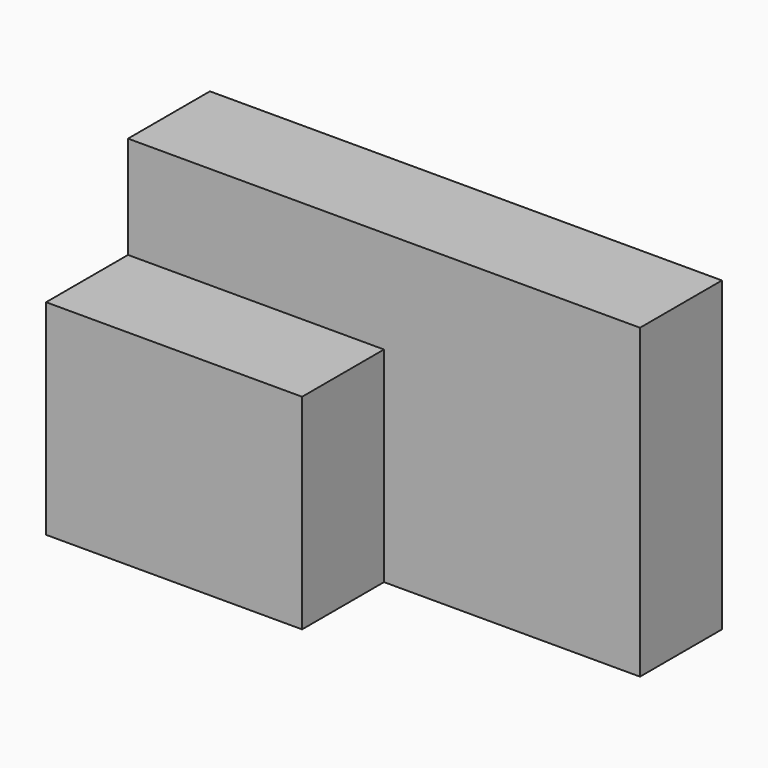
from build123d import *

# Parameters (mm, degrees)
F1_DEPTH = 38.1
F0_W     = 31.75
F0_H     = 12.7
F2_DEPTH = 25.4


with BuildPart() as f1:
    # F0 (on Top) → F1 (new body)
    with BuildSketch(Plane.XY):
        Polygon((63.5, 0), (0, 0), (0, -12.7), (31.75, -12.7), (63.5, -12.7), align=None)
    extrude(amount=F1_DEPTH)

    # F0 (on Top) → F2 (join)
    with BuildSketch(Plane.XY):
        Polygon((63.5, 0), (0, 0), (0, -12.7), (31.75, -12.7), (63.5, -12.7), align=None)
        with Locations((15.875, -19.05)):
            Rectangle(F0_W, F0_H)
    extrude(amount=F2_DEPTH)


solid = f1.part
